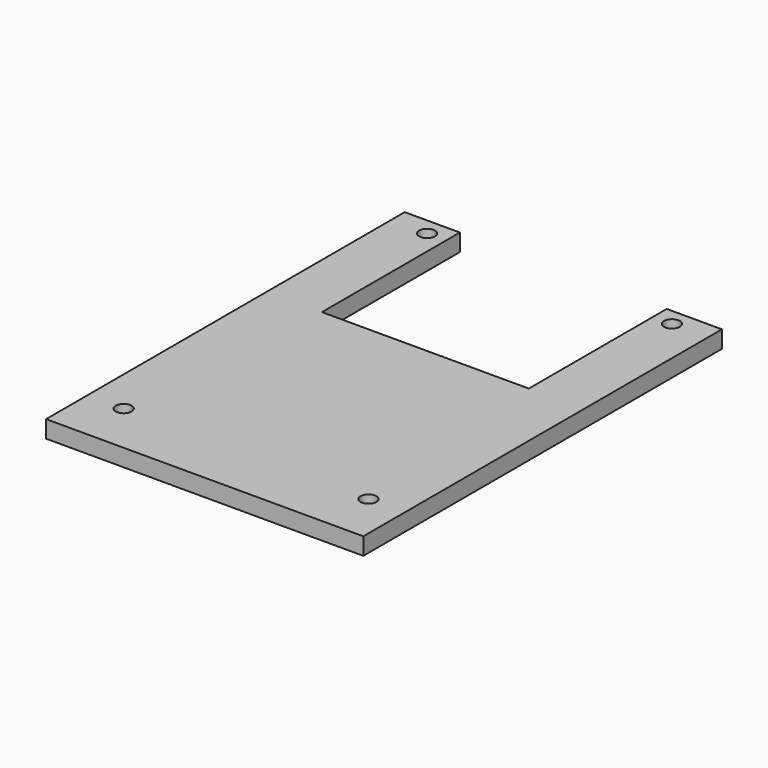
from build123d import *

# Parameters (mm, degrees)
F0_R     = 1.15
F1_DEPTH = 2.5


with BuildPart() as f1:
    # F0 (on Top) → F1 (new body)
    with BuildSketch(Plane.XY):
        Polygon((-23, -32.5), (23, -32.5), (23, 32.5), (15, 32.5), (15, 7.5), (-15, 7.5), (-15, 32.5), (-23, 32.5), align=None)
        with Locations((-17.75, -25)):
            Circle(F0_R, mode=Mode.SUBTRACT)
        with Locations((17.75, -25)):
            Circle(F0_R, mode=Mode.SUBTRACT)
        with Locations((-17.75, 30)):
            Circle(F0_R, mode=Mode.SUBTRACT)
        with Locations((17.75, 30)):
            Circle(F0_R, mode=Mode.SUBTRACT)
    extrude(amount=F1_DEPTH)


solid = f1.part
